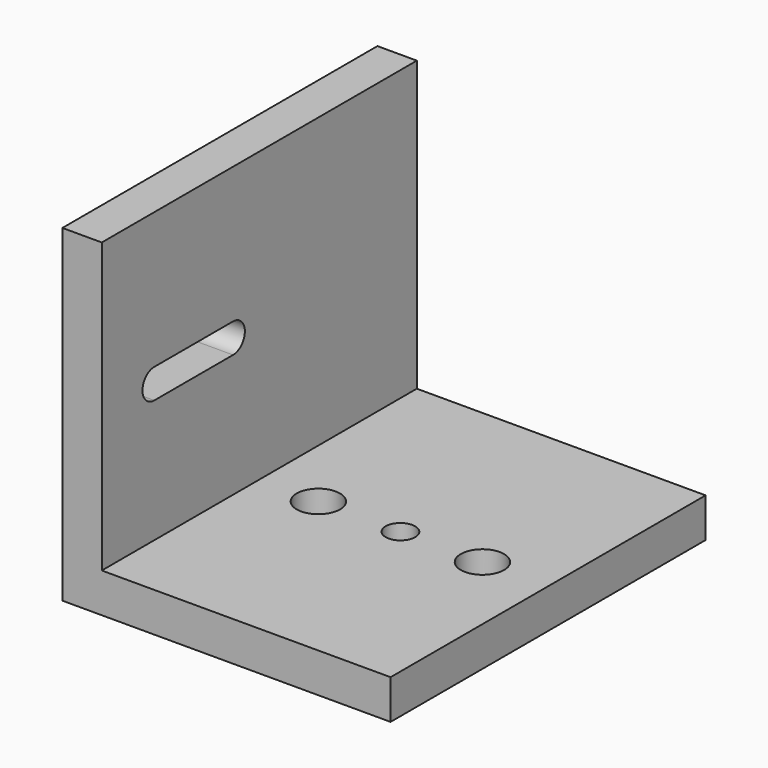
from build123d import *

# Parameters (mm, degrees)
F0_W     = 50
F0_H     = 60
F1_DEPTH = 6
F2_W     = 6
F2_H     = 60
F3_DEPTH = 44
F5_DEPTH = 50.001
F6_R     = 2.25
F6_R_2   = 3.3
F7_DEPTH = 25


with BuildPart() as f1:
    # F0 (on Top) → F1 (new body)
    with BuildSketch(Plane.XY):
        with Locations((25, -30)):
            Rectangle(F0_W, F0_H)
    extrude(amount=F1_DEPTH)

    # F2 (on face) → F3 (join)
    with BuildSketch(Plane.XY.offset(6)):
        with Locations((3, -30)):
            Rectangle(F2_W, F2_H)
    extrude(amount=F3_DEPTH)

    # F4 (on face) → F5 (cut, through all)
    with BuildSketch(Plane(origin=(0, 0, 0), x_dir=(0, -1, 0), z_dir=(-1, 0, 0))):
        with BuildLine():
            Line((50, 29.25), (35, 29.25))
            ThreePointArc((35, 29.25), (32.75, 27), (35, 24.75))
            Line((35, 24.75), (50, 24.75))
            ThreePointArc((50, 24.75), (52.25, 27), (50, 29.25))
        make_face()
        with BuildLine():
            Line((50, 29.25), (35, 29.25))
            ThreePointArc((35, 29.25), (32.75, 27), (35, 24.75))
            Line((35, 24.75), (50, 24.75))
            ThreePointArc((50, 24.75), (52.25, 27), (50, 29.25))
        make_face()
    extrude(amount=-F5_DEPTH, mode=Mode.SUBTRACT)

    # F6 (on face) → F7 (cut)
    with BuildSketch(Plane.XY.offset(6)):
        with Locations((27.5, -30)):
            Circle(F6_R)
        with Locations((15, -30)):
            Circle(F6_R_2)
        with Locations((40, -30)):
            Circle(F6_R_2)
        with Locations((27.5, -30)):
            Circle(F6_R)
        with Locations((40, -30)):
            Circle(F6_R_2)
        with Locations((15, -30)):
            Circle(F6_R_2)
    extrude(amount=-F7_DEPTH, mode=Mode.SUBTRACT)


solid = f1.part
